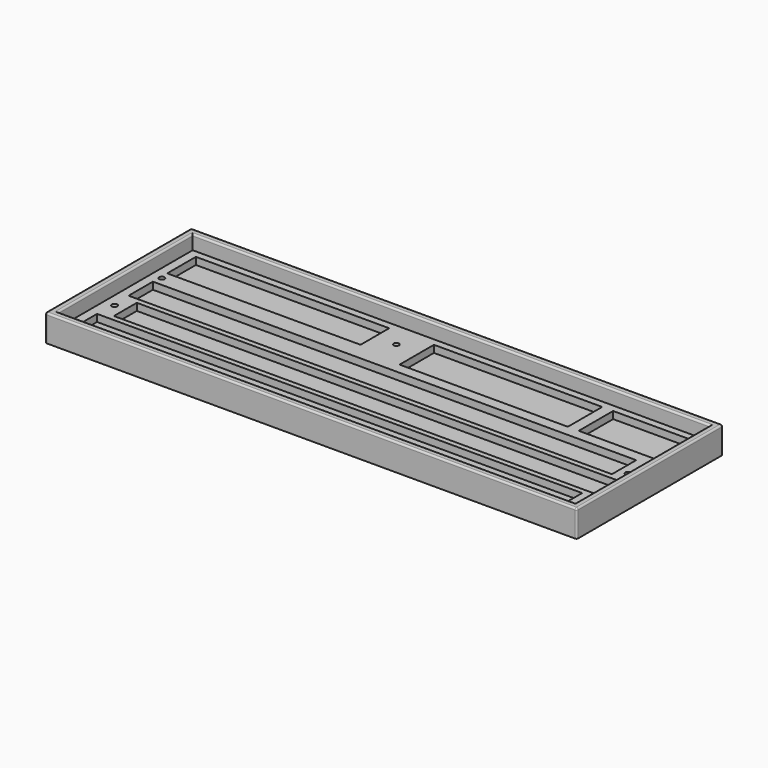
from build123d import *

# Parameters (mm, degrees)
SKETCH_W        = 297
SKETCH_H        = 102
PAD_DEPTH       = 15
SKETCH001_W     = 289
SKETCH001_H     = 94
POCKET_DEPTH    = 8
SKETCH002_W     = 271
SKETCH002_H     = 16
SKETCH002_W_2   = 272
SKETCH002_W_3   = 270
SKETCH002_H_2   = 17
SKETCH002_W_4   = 45.901761
SKETCH002_H_3   = 24
SKETCH002_W_5   = 94
SKETCH002_W_6   = 108
SKETCH002_H_4   = 20
POCKET001_DEPTH = 4
SKETCH003_R     = 1.51818
SKETCH003_R_2   = 1.523657
SKETCH003_R_3   = 1.522766
SKETCH003_R_4   = 1.49253
SKETCH003_R_5   = 1.485367
POCKET002_DEPTH = 15
SKETCH004_R     = 3.476644
SKETCH004_R_2   = 3.504577
SKETCH004_R_3   = 3.496918
SKETCH004_R_4   = 3.4664
SKETCH004_R_5   = 3.481812
POCKET003_DEPTH = 3
FILLET_R        = 1
FILLET001_R     = 1


with BuildPart() as part:
    # Sketch → Pad (new body)
    with BuildSketch(Plane.XY):
        with Locations((148.5, 51)):
            Rectangle(SKETCH_W, SKETCH_H)
    extrude(amount=PAD_DEPTH)

    # Sketch001 → Pocket (cut)
    with BuildSketch(Plane.XY.offset(15)):
        with Locations((148.5, 51)):
            Rectangle(SKETCH001_W, SKETCH001_H)
    extrude(amount=-POCKET_DEPTH, mode=Mode.SUBTRACT)

    # Sketch002 → Pocket001 (cut)
    with BuildSketch(Plane.XY.offset(7)):
        with Locations((144.5, 17)):
            Rectangle(SKETCH002_W, SKETCH002_H)
        with Locations((152, 36)):
            Rectangle(SKETCH002_W_2, SKETCH002_H)
        with Locations((144, 55.5)):
            Rectangle(SKETCH002_W_3, SKETCH002_H_2)
        with Locations((265.049119, 82)):
            Rectangle(SKETCH002_W_4, SKETCH002_H_3)
        with Locations((189, 82)):
            Rectangle(SKETCH002_W_5, SKETCH002_H_3)
        with Locations((63, 84)):
            Rectangle(SKETCH002_W_6, SKETCH002_H_4)
    extrude(amount=-POCKET001_DEPTH, mode=Mode.SUBTRACT)

    # Sketch003 → Pocket002 (cut)
    with BuildSketch(Plane.XY.offset(7)):
        with Locations((284, 52)):
            Circle(SKETCH003_R)
        with Locations((10, 36)):
            Circle(SKETCH003_R_2)
        with Locations((287, 10)):
            Circle(SKETCH003_R_3)
        with Locations((10, 69)):
            Circle(SKETCH003_R_4)
        with Locations((129, 84)):
            Circle(SKETCH003_R_5)
    extrude(amount=-POCKET002_DEPTH, mode=Mode.SUBTRACT)

    # Sketch004 → Pocket003 (cut)
    with BuildSketch(Plane(origin=(0, 0, 0), x_dir=(1, 0, 0), z_dir=(0, 0, -1))):
        with Locations((10, -36)):
            Circle(SKETCH004_R)
        with Locations((10, -69)):
            Circle(SKETCH004_R_2)
        with Locations((129, -84)):
            Circle(SKETCH004_R_3)
        with Locations((287, -10)):
            Circle(SKETCH004_R_4)
        with Locations((284, -52)):
            Circle(SKETCH004_R_5)
    extrude(amount=-POCKET003_DEPTH, mode=Mode.SUBTRACT)

    # Fillet
    fillet_edges = [part.edges().sort_by_distance(p)[0] for p in [
        (148.5, 102, 15),
        (297, 102, 7.5),
        (0, 102, 7.5),
        (148.5, 0, 15),
        (297, 0, 7.5),
        (0, 0, 7.5),
        (0, 51, 15),
        (297, 51, 15),
    ]]
    fillet(fillet_edges, radius=FILLET_R)

    # Fillet001
    fillet001_edges = [part.edges().sort_by_distance(p)[0] for p in [
        (148.5, 98, 15),
        (4, 51, 15),
        (148.5, 4, 15),
        (293, 51, 15),
    ]]
    fillet(fillet001_edges, radius=FILLET001_R)


solid = part.part
